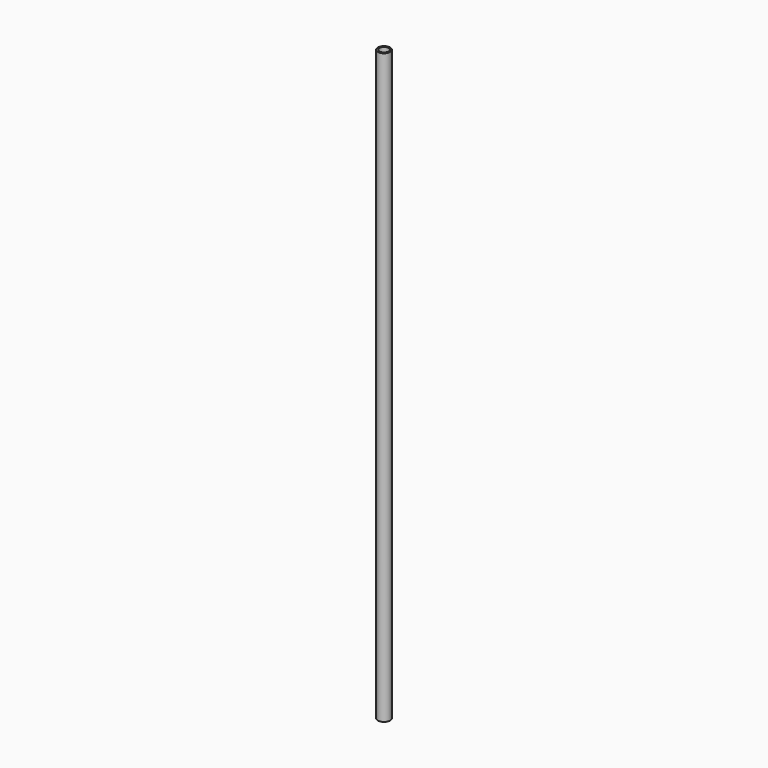
from build123d import *

# Parameters (mm, degrees)
CYLINDER002_R     = 7.9
CYLINDER002_DEPTH = 1016
CYLINDER003_R     = 10.67
CYLINDER003_DEPTH = 1016


with BuildPart() as cylinder002:
    # Cylinder002 → Cylinder002 (new body)
    with BuildSketch(Plane.XY):
        Circle(CYLINDER002_R)
    extrude(amount=CYLINDER002_DEPTH)


with BuildPart() as pipe:
    # Cylinder003 → Cylinder003 (new body)
    with BuildSketch(Plane.XY):
        Circle(CYLINDER003_R)
    extrude(amount=CYLINDER003_DEPTH)

    # Cut001: cut Cylinder002
    add(cylinder002.part, mode=Mode.SUBTRACT)


solid = pipe.part
